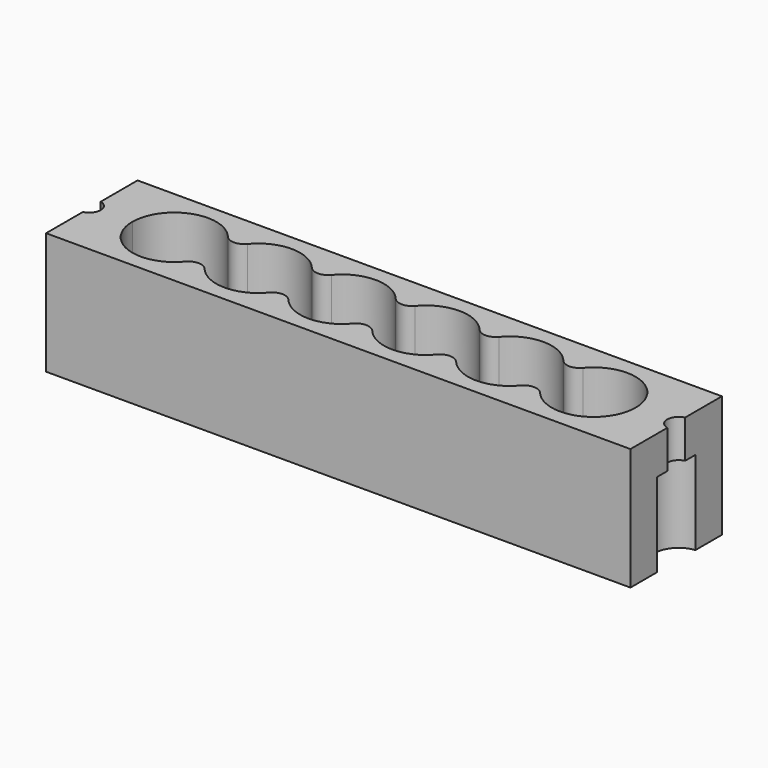
from build123d import *

# Parameters (mm, degrees)
F0_W     = 230
F0_H     = 45
F1_DEPTH = 48
F3_DEPTH = 48
F5_DEPTH = 33
F6_R     = 4.5
F7_DEPTH = 15


with BuildPart() as f1:
    # F0 (on Top) → F1 (new body)
    with BuildSketch(Plane.XY):
        Rectangle(F0_W, F0_H)
    extrude(amount=F1_DEPTH)

    # F2 (on face) → F3 (cut, through all)
    with BuildSketch(Plane.XY.offset(48)):
        with BuildLine():
            ThreePointArc((-69.858372, 10.573861), (-88.148639, 15.512082), (-99.025, 0))
            ThreePointArc((-99.025, 0), (-88.148639, -15.512082), (-69.858372, -10.573861))
            ThreePointArc((-69.858372, -10.573861), (-66.02, -8.778061), (-62.181628, -10.573861))
            ThreePointArc((-62.181628, -10.573861), (-49.515, -16.5), (-36.848372, -10.573861))
            ThreePointArc((-36.848372, -10.573861), (-33.01, -8.778061), (-29.171628, -10.573861))
            ThreePointArc((-29.171628, -10.573861), (-16.505, -16.5), (-3.838372, -10.573861))
            ThreePointArc((-3.838372, -10.573861), (0, -8.778061), (3.838372, -10.573861))
            ThreePointArc((3.838372, -10.573861), (16.505, -16.5), (29.171628, -10.573861))
            ThreePointArc((29.171628, -10.573861), (33.01, -8.778061), (36.848372, -10.573861))
            ThreePointArc((36.848372, -10.573861), (49.515, -16.5), (62.181628, -10.573861))
            ThreePointArc((62.181628, -10.573861), (66.02, -8.778061), (69.858372, -10.573861))
            ThreePointArc((69.858372, -10.573861), (88.148639, -15.512082), (99.025, 0))
            ThreePointArc((99.025, 0), (88.148639, 15.512082), (69.858372, 10.573861))
            ThreePointArc((69.858372, 10.573861), (66.02, 8.778061), (62.181628, 10.573861))
            ThreePointArc((62.181628, 10.573861), (49.515, 16.5), (36.848372, 10.573861))
            ThreePointArc((36.848372, 10.573861), (33.01, 8.778061), (29.171628, 10.573861))
            ThreePointArc((29.171628, 10.573861), (16.505, 16.5), (3.838372, 10.573861))
            ThreePointArc((3.838372, 10.573861), (0, 8.778061), (-3.838372, 10.573861))
            ThreePointArc((-3.838372, 10.573861), (-16.505, 16.5), (-29.171628, 10.573861))
            ThreePointArc((-29.171628, 10.573861), (-33.01, 8.778061), (-36.848372, 10.573861))
            ThreePointArc((-36.848372, 10.573861), (-49.515, 16.5), (-62.181628, 10.573861))
            ThreePointArc((-62.181628, 10.573861), (-66.02, 8.778061), (-69.858372, 10.573861))
        make_face()
    extrude(amount=-F3_DEPTH, mode=Mode.SUBTRACT)

    # F4 (on face) → F5 (cut)
    with BuildSketch(Plane(origin=(0, 0, 0), x_dir=(1, 0, 0), z_dir=(0, 0, -1))):
        with BuildLine():
            Line((-115, -9.525), (-115, -9.472361))
            ThreePointArc((-115, -9.472361), (-115.499308, -9.511831), (-116, -9.525))
            Line((-116, -9.525), (-115, -9.525))
        make_face()
        with BuildLine():
            ThreePointArc((-115, -9.472361), (-106.475, 0), (-115, 9.472361))
            Line((-115, 9.472361), (-115, -9.472361))
        make_face()
        with BuildLine():
            Line((-115, 9.525), (-116, 9.525))
            ThreePointArc((-116, 9.525), (-115.499308, 9.511831), (-115, 9.472361))
            Line((-115, 9.472361), (-115, 9.525))
        make_face()
        with BuildLine():
            ThreePointArc((115, 9.472361), (115.499308, 9.511831), (116, 9.525))
            Line((116, 9.525), (115, 9.525))
            Line((115, 9.525), (115, 9.472361))
        make_face()
        with BuildLine():
            ThreePointArc((116, -9.525), (115.499308, -9.511831), (115, -9.472361))
            Line((115, -9.472361), (115, -9.525))
            Line((115, -9.525), (116, -9.525))
        make_face()
        with BuildLine():
            Line((115, -9.472361), (115, 9.472361))
            ThreePointArc((115, 9.472361), (106.475, 0), (115, -9.472361))
        make_face()
    extrude(amount=-F5_DEPTH, mode=Mode.SUBTRACT)

    # F6 (on face) → F7 (cut, through all)
    with BuildSketch(Plane(origin=(0, 0, 33), x_dir=(1, 0, 0), z_dir=(0, 0, -1))):
        with Locations((-116, 0)):
            Circle(F6_R)
        with Locations((116, 0)):
            Circle(F6_R)
    extrude(amount=-F7_DEPTH, mode=Mode.SUBTRACT)


solid = f1.part
